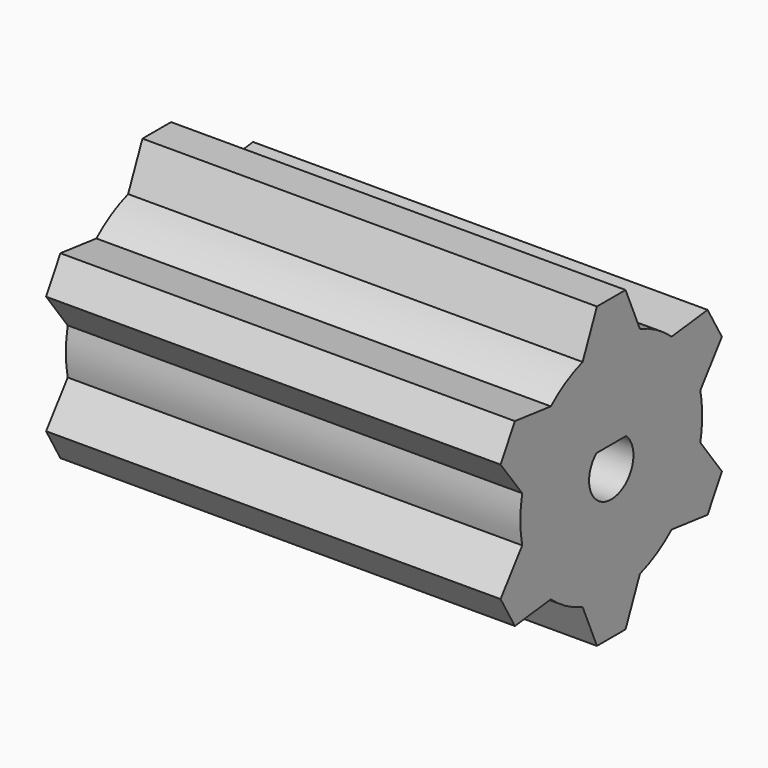
from build123d import *

# Parameters (mm, degrees)
F1_DEPTH = 50.8
F3_DEPTH = 101.6


with BuildPart() as f1:
    # F0 (on Right) → F1 (new body)
    with BuildSketch(Plane.YZ):
        with BuildLine():
            ThreePointArc((12.43875, -2.562713), (12.634519, -1.287998), (12.7, 0))
            ThreePointArc((12.7, 0), (12.634519, 1.287998), (12.43875, 2.562713))
            ThreePointArc((12.43875, 2.562713), (10.998523, 6.35), (8.43875, 9.490917))
            ThreePointArc((8.43875, 9.490917), (6.35, 10.998523), (4, 12.05363))
            ThreePointArc((4, 12.05363), (0, 12.7), (-4, 12.05363))
            ThreePointArc((-4, 12.05363), (-6.35, 10.998523), (-8.43875, 9.490917))
            ThreePointArc((-8.43875, 9.490917), (-10.998523, 6.35), (-12.43875, 2.562713))
            ThreePointArc((-12.43875, 2.562713), (-12.7, 0), (-12.43875, -2.562713))
            ThreePointArc((-12.43875, -2.562713), (-10.998523, -6.35), (-8.43875, -9.490917))
            ThreePointArc((-8.43875, -9.490917), (-6.35, -10.998523), (-4, -12.05363))
            ThreePointArc((-4, -12.05363), (0, -12.7), (4, -12.05363))
            ThreePointArc((4, -12.05363), (6.35, -10.998523), (8.43875, -9.490917))
            ThreePointArc((8.43875, -9.490917), (10.998523, -6.35), (12.43875, -2.562713))
        make_face()
        with BuildLine():
            ThreePointArc((8.43875, 9.490917), (10.998523, 6.35), (12.43875, 2.562713))
            Line((12.43875, 2.562713), (15.462624, 6.617949))
            Line((15.462624, 6.617949), (14.462624, 8.35))
            Line((14.462624, 8.35), (13.462624, 10.082051))
            Line((13.462624, 10.082051), (8.43875, 9.490917))
        make_face()
        with BuildLine():
            Line((15.462624, -6.617949), (12.43875, -2.562713))
            ThreePointArc((12.43875, -2.562713), (10.998523, -6.35), (8.43875, -9.490917))
            Line((8.43875, -9.490917), (13.462624, -10.082051))
            Line((13.462624, -10.082051), (14.462624, -8.35))
            Line((14.462624, -8.35), (15.462624, -6.617949))
        make_face()
        with BuildLine():
            ThreePointArc((-4, 12.05363), (0, 12.7), (4, 12.05363))
            Line((4, 12.05363), (2, 16.7))
            Line((2, 16.7), (0, 16.7))
            Line((0, 16.7), (-2, 16.7))
            Line((-2, 16.7), (-4, 12.05363))
        make_face()
        with BuildLine():
            Line((2, -16.7), (4, -12.05363))
            ThreePointArc((4, -12.05363), (0, -12.7), (-4, -12.05363))
            Line((-4, -12.05363), (-2, -16.7))
            Line((-2, -16.7), (0, -16.7))
            Line((0, -16.7), (2, -16.7))
        make_face()
        with BuildLine():
            ThreePointArc((-12.43875, 2.562713), (-10.998523, 6.35), (-8.43875, 9.490917))
            Line((-8.43875, 9.490917), (-13.462624, 10.082051))
            Line((-13.462624, 10.082051), (-14.462624, 8.35))
            Line((-14.462624, 8.35), (-15.462624, 6.617949))
            Line((-15.462624, 6.617949), (-12.43875, 2.562713))
        make_face()
        with BuildLine():
            Line((-13.462624, -10.082051), (-8.43875, -9.490917))
            ThreePointArc((-8.43875, -9.490917), (-10.998523, -6.35), (-12.43875, -2.562713))
            Line((-12.43875, -2.562713), (-15.462624, -6.617949))
            Line((-15.462624, -6.617949), (-14.462624, -8.35))
            Line((-14.462624, -8.35), (-13.462624, -10.082051))
        make_face()
    extrude(amount=F1_DEPTH)

    # F2 (on face) → F3 (cut)
    with BuildSketch(Plane.YZ.offset(50.8)):
        with BuildLine():
            Line((2.077989, 2.300426), (-2.077989, 2.300426))
            ThreePointArc((-2.077989, 2.300426), (0, -3.1), (2.077989, 2.300426))
        make_face()
    extrude(amount=-F3_DEPTH, mode=Mode.SUBTRACT)


solid = f1.part
